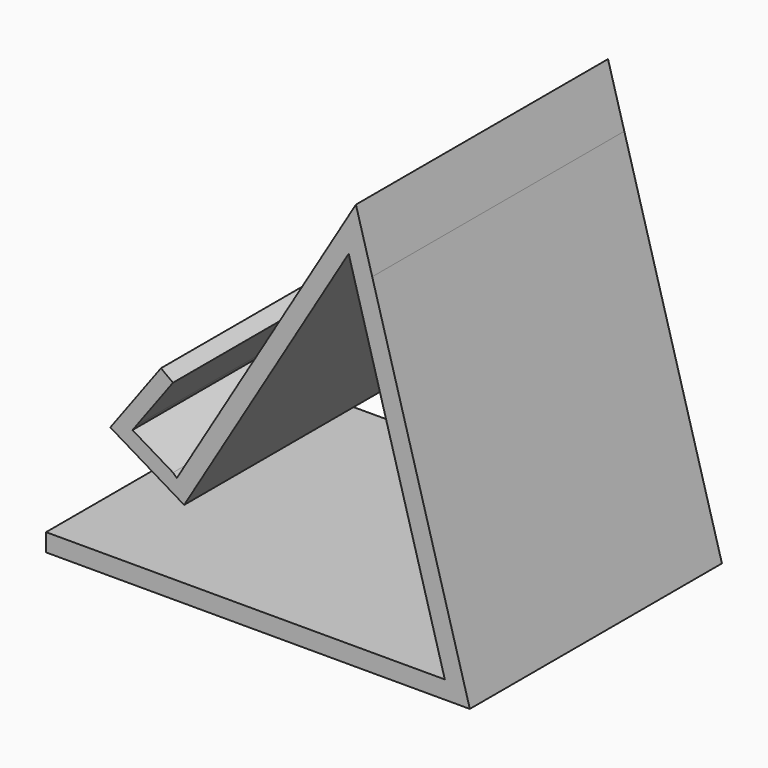
from build123d import *

# Parameters (mm, degrees)
F1_DEPTH = 25.4
F2_DEPTH = 50.8


with BuildPart() as f1:
    # F0 (on Front) → F1 (new body)
    with BuildSketch(Plane.XZ):
        Polygon((49.5025888085, -27.3415483534), (-46.9123385847, -27.3415483534), (-46.9123385847, -31.6586345434), (55.5465072393, -31.6586345434), (31.9464355707, 52.6684559882), (28.0056549592, 66.749538794), (-13.5268718004, -2.5902516209), (-15.2990825042, -5.5490101738), (-16.2269293135, -4.6822128814), (-26.0173998696, 1.1819955036), (-25.064110517, 2.4734322168), (-16.2269293135, 14.4453064604), (-19.1335026175, 16.590828076), (-31.3802194673, 0), (-13.5268718004, -10.6936383178), (26.2555110267, 55.724234676), (27.1107118356, 52.6684559882), (30.4946565621, 40.5770429913), align=None)
    extrude(amount=F1_DEPTH)

    # F2 (add): a face of the model
    f2_faces = [f1.faces().sort_by_distance(p)[0] for p in [
        (39.2471169532, -25.4, 14.5742151409),
    ]]
    extrude(f2_faces, amount=F2_DEPTH)


solid = f1.part
